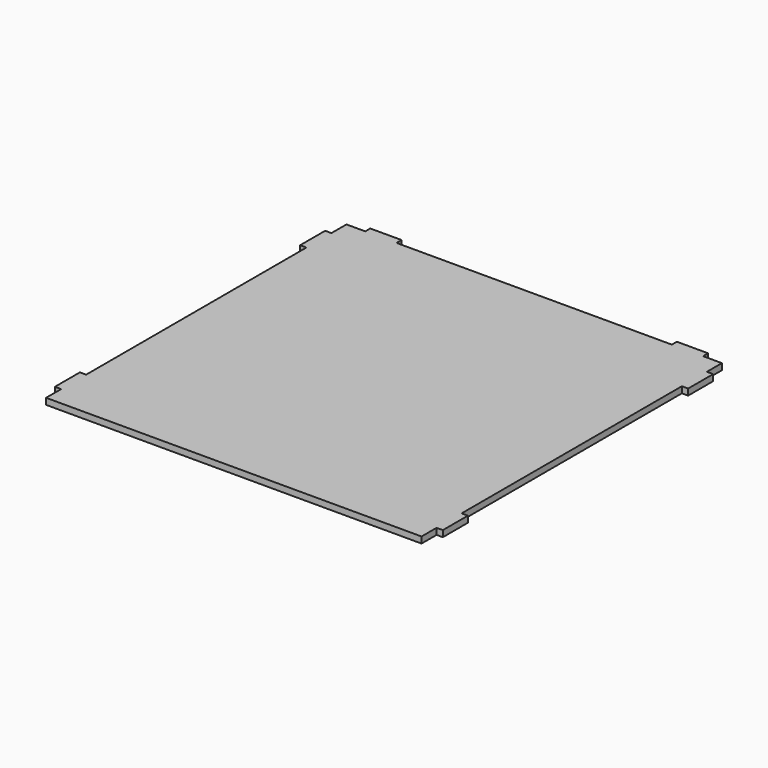
from build123d import *

# Parameters (mm, degrees)
F1_DEPTH = 2.54


with BuildPart() as f1:
    # F0 (on Top) → F1 (new body)
    with BuildSketch(Plane.XY):
        Polygon((-76.2, -76.2), (76.2, -76.2), (76.2, -68.58), (78.74, -68.58), (78.74, -55.88), (76.2, -55.88), (76.2, -50.8), (76.2, 50.8), (76.2, 55.88), (78.74, 55.88), (78.74, 68.58), (76.2, 68.58), (76.2, 76.2), (68.58, 76.2), (68.58, 78.74), (55.88, 78.74), (55.88, 76.2), (-55.88, 76.2), (-55.88, 78.74), (-68.58, 78.74), (-68.58, 76.2), (-76.2, 76.2), (-76.2, 68.58), (-78.74, 68.58), (-78.74, 55.88), (-76.2, 55.88), (-76.2, 50.8), (-76.2, -50.8), (-76.2, -55.88), (-78.74, -55.88), (-78.74, -68.58), (-76.2, -68.58), align=None)
    extrude(amount=F1_DEPTH)


solid = f1.part
